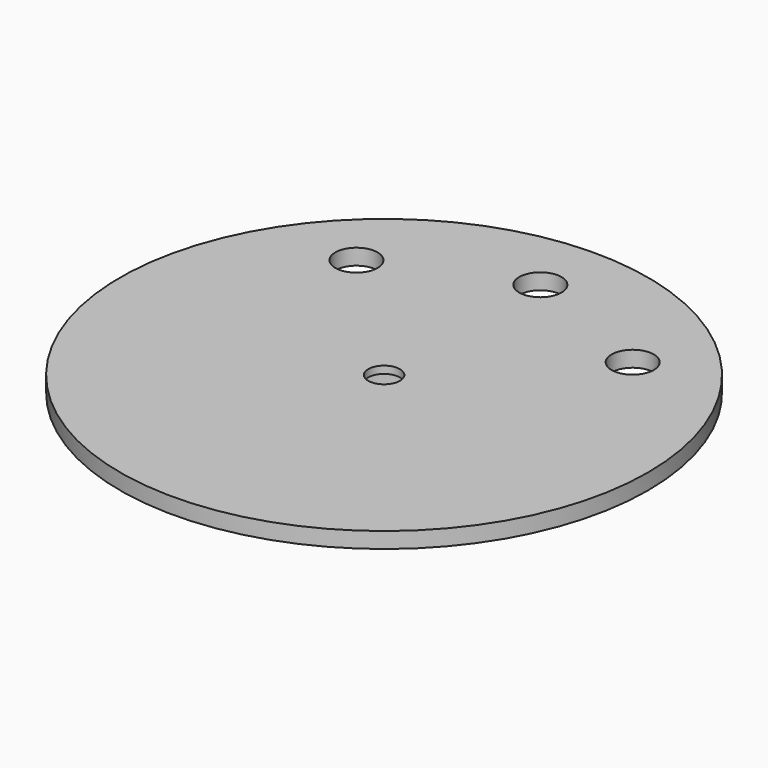
from build123d import *

# Parameters (mm, degrees)
SKETCH002_R                 = 3
EXTRUDE002_DEPTH            = 4
EXTRUDE002_DEPTH_BACK       = 3.4
CYLINDER049_R               = 1.5
CYLINDER049_DEPTH           = 19
CYLINDER014_R               = 2
CYLINDER014_DEPTH           = 1
CYLINDER014_PLACEMENT_ANGLE = 45
CYLINDER015_R               = 2
CYLINDER015_DEPTH           = 1
CYLINDER016_R               = 2
CYLINDER016_DEPTH           = 1
CYLINDER016_PLACEMENT_ANGLE = 135
CYLINDER017_R               = 2
CYLINDER017_DEPTH           = 1
CYLINDER018_R               = 2
CYLINDER018_DEPTH           = 5
CYLINDER018_PLACEMENT_ANGLE = 225
CYLINDER019_R               = 2
CYLINDER019_DEPTH           = 5
CYLINDER020_R               = 2
CYLINDER020_DEPTH           = 5
CYLINDER020_PLACEMENT_ANGLE = 45
CYLINDER013_R               = 2
CYLINDER013_DEPTH           = 1
CYLINDER021_R               = 5
CYLINDER021_DEPTH           = 5
CYLINDER012_R               = 25
CYLINDER012_DEPTH           = 1.5
CUT050_PLACEMENT_ANGLE      = 180


with BuildPart() as extrude002:
    # Sketch002 (on Face25 of Shape005) → Extrude002 (new body, two sides)
    with BuildSketch(Plane(origin=(85.664098, -4.553146, 1.091283), x_dir=(-1, 0, 0), z_dir=(0, 0, 1))) as extrude002_sk:
        with Locations((9.450198, -0.000218)):
            Circle(SKETCH002_R)
    extrude(amount=EXTRUDE002_DEPTH)
    extrude(extrude002_sk.sketch, amount=-EXTRUDE002_DEPTH_BACK)


with BuildPart() as extrude002_1:
    # Extrude002 placement: moved
    add(extrude002.part.moved(Location((-76.21, 4.55, 3))))


with BuildPart() as cylinder049:
    # Cylinder049 → Cylinder049 (new body)
    with BuildSketch(Plane.XY.offset(-1)):
        Circle(CYLINDER049_R)
    extrude(amount=CYLINDER049_DEPTH)


with BuildPart() as cylinder014:
    # cylinder014 → cylinder014 (new body)
    with BuildSketch(Plane.XY):
        Circle(CYLINDER014_R)
    extrude(amount=CYLINDER014_DEPTH)


with BuildPart() as cylinder014_1:
    # cylinder014 placement: moved
    add(cylinder014.part.moved(Location((13.081475, 13.081475, 0))).rotate(Axis((13.081475, 13.081475, 0), (0, 0, 1)), CYLINDER014_PLACEMENT_ANGLE))


with BuildPart() as cylinder015:
    # cylinder015 → cylinder015 (new body)
    with BuildSketch(Plane(origin=(0, 18.5, 0), x_dir=(0, 1, 0), z_dir=(0, 0, 1))):
        Circle(CYLINDER015_R)
    extrude(amount=CYLINDER015_DEPTH)


with BuildPart() as cylinder016:
    # cylinder016 → cylinder016 (new body)
    with BuildSketch(Plane.XY):
        Circle(CYLINDER016_R)
    extrude(amount=CYLINDER016_DEPTH)


with BuildPart() as cylinder016_1:
    # cylinder016 placement: moved
    add(cylinder016.part.moved(Location((-13.081475, 13.081475, 0))).rotate(Axis((-13.081475, 13.081475, 0), (0, 0, 1)), CYLINDER016_PLACEMENT_ANGLE))


with BuildPart() as cylinder017:
    # cylinder017 → cylinder017 (new body)
    with BuildSketch(Plane(origin=(-18.5, 0, 0), x_dir=(-1, 0, 0), z_dir=(0, 0, 1))):
        Circle(CYLINDER017_R)
    extrude(amount=CYLINDER017_DEPTH)


with BuildPart() as cylinder018:
    # cylinder018 → cylinder018 (new body)
    with BuildSketch(Plane.XY):
        Circle(CYLINDER018_R)
    extrude(amount=CYLINDER018_DEPTH)


with BuildPart() as cylinder018_1:
    # cylinder018 placement: moved
    add(cylinder018.part.moved(Location((-13.081475, -13.081475, 0))).rotate(Axis((-13.081475, -13.081475, 0), (0, 0, 1)), CYLINDER018_PLACEMENT_ANGLE))


with BuildPart() as cylinder019:
    # cylinder019 → cylinder019 (new body)
    with BuildSketch(Plane(origin=(0, -18.5, 0), x_dir=(0, -1, 0), z_dir=(0, 0, 1))):
        Circle(CYLINDER019_R)
    extrude(amount=CYLINDER019_DEPTH)


with BuildPart() as cylinder020:
    # cylinder020 → cylinder020 (new body)
    with BuildSketch(Plane.XY):
        Circle(CYLINDER020_R)
    extrude(amount=CYLINDER020_DEPTH)


with BuildPart() as cylinder020_1:
    # cylinder020 placement: moved
    add(cylinder020.part.moved(Location((13.081475, -13.081475, 0))).rotate(Axis((13.081475, -13.081475, 0), (0, 0, -1)), CYLINDER020_PLACEMENT_ANGLE))


with BuildPart() as fusion026:
    # cylinder013 → cylinder013 (new body)
    with BuildSketch(Plane(origin=(18.5, 0, 0), x_dir=(1, 0, 0), z_dir=(0, 0, 1))):
        Circle(CYLINDER013_R)
    extrude(amount=CYLINDER013_DEPTH)

    # Group001: union cylinder014, cylinder015, cylinder016, cylinder017, cylinder018, cylinder019, cylinder020
    add(cylinder014_1.part)
    add(cylinder015.part)
    add(cylinder016_1.part)
    add(cylinder017.part)
    add(cylinder018_1.part)
    add(cylinder019.part)
    add(cylinder020_1.part)


with BuildPart() as fusion026_1:
    # Group001 placement: moved
    add(fusion026.part.moved(Location((0, 0, -1))))

    # Fusion026: union Extrude002, Cylinder049
    add(extrude002_1.part)
    add(cylinder049.part)


with BuildPart() as servo_central_shaft002:
    # cylinder021 → cylinder021 (new body)
    with BuildSketch(Plane.XY):
        Circle(CYLINDER021_R)
    extrude(amount=CYLINDER021_DEPTH)


with BuildPart() as rotor:
    # cylinder012 → cylinder012 (new body)
    with BuildSketch(Plane.XY):
        Circle(CYLINDER012_R)
    extrude(amount=CYLINDER012_DEPTH)

    # Fusion027: union servo_central_shaft002
    add(servo_central_shaft002.part)

    # Cut050: cut Fusion026
    add(fusion026_1.part, mode=Mode.SUBTRACT)


with BuildPart() as rotor_1:
    # Cut050 placement: moved
    add(rotor.part.moved(Location((-13.7, 55.5, 5))).rotate(Axis((-13.7, 55.5, 5), (1, 0, 0)), CUT050_PLACEMENT_ANGLE))


solid = rotor_1.part
